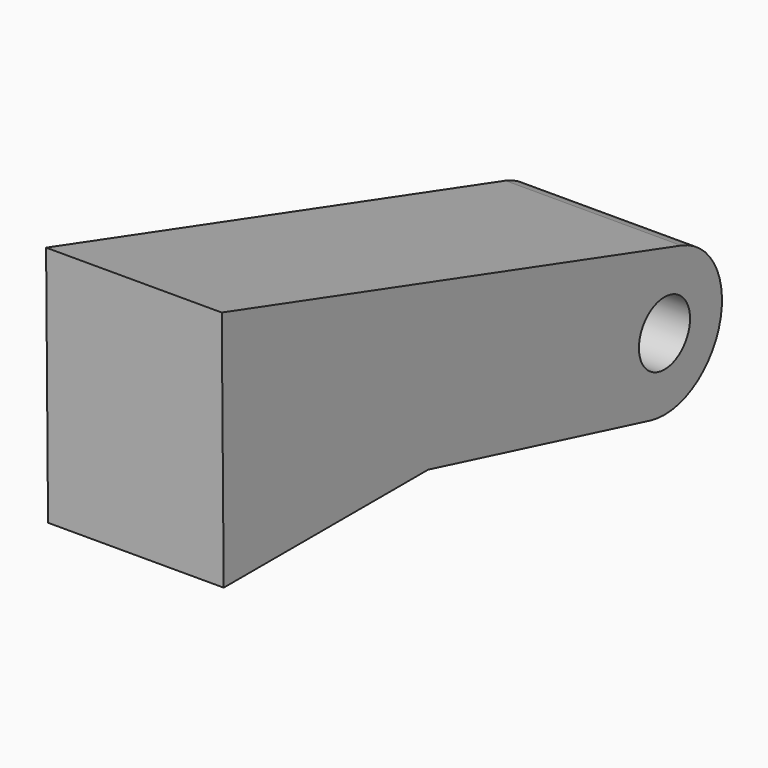
from build123d import *

# Parameters (mm, degrees)
F0_R     = 4
F1_DEPTH = 22


with BuildPart() as f1:
    # F0 (on Right) → F1 (new body)
    with BuildSketch(Plane.YZ):
        with BuildLine():
            Line((-56.613646, 48.741401), (-56.305946, 18.28031))
            Line((-56.305946, 18.28031), (-24.305946, 18.28031))
            Line((-24.305946, 18.28031), (10.504865, 9.550622))
            ThreePointArc((10.504865, 9.550622), (21.367226, 15.876961), (15.310108, 26.891713))
            Line((15.310108, 26.891713), (-56.613646, 48.741401))
        make_face()
        with Locations((12.694054, 18.28031)):
            Circle(F0_R, mode=Mode.SUBTRACT)
    extrude(amount=-F1_DEPTH)


solid = f1.part
